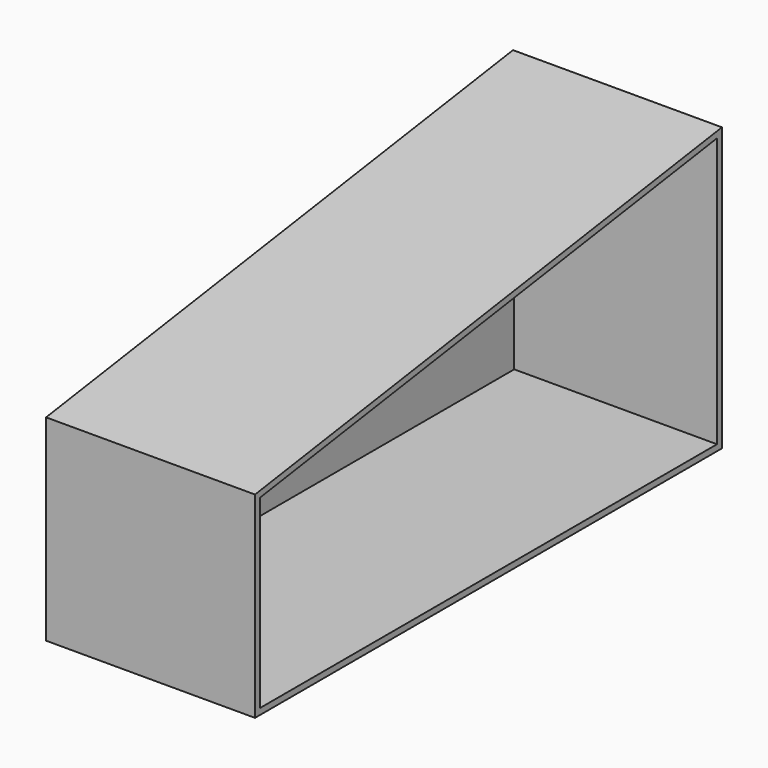
from build123d import *

# Parameters (mm, degrees)
F1_DEPTH = 2590.8
F3_DEPTH = 76.2


with BuildPart() as f1:
    # F0 (on Right) → F1 (new body)
    with BuildSketch(Plane.YZ):
        Polygon((3506.242531, 0), (3506.242531, 3505.2), (-3730.751928, 2438.4), (-3730.751928, 0), align=None)
        Polygon((-3654.551928, 2372.609141), (3430.042531, 3416.94397), (3430.042531, 76.2), (-3654.551928, 76.2), align=None, mode=Mode.SUBTRACT)
    extrude(amount=F1_DEPTH)

    # F2 (on Right) → F3 (join)
    with BuildSketch(Plane.YZ):
        Polygon((3430.042531, 76.2), (3430.042531, 3416.94397), (-3654.551928, 2372.609141), (-3654.551928, 76.2), align=None)
    extrude(amount=F3_DEPTH)


solid = f1.part
